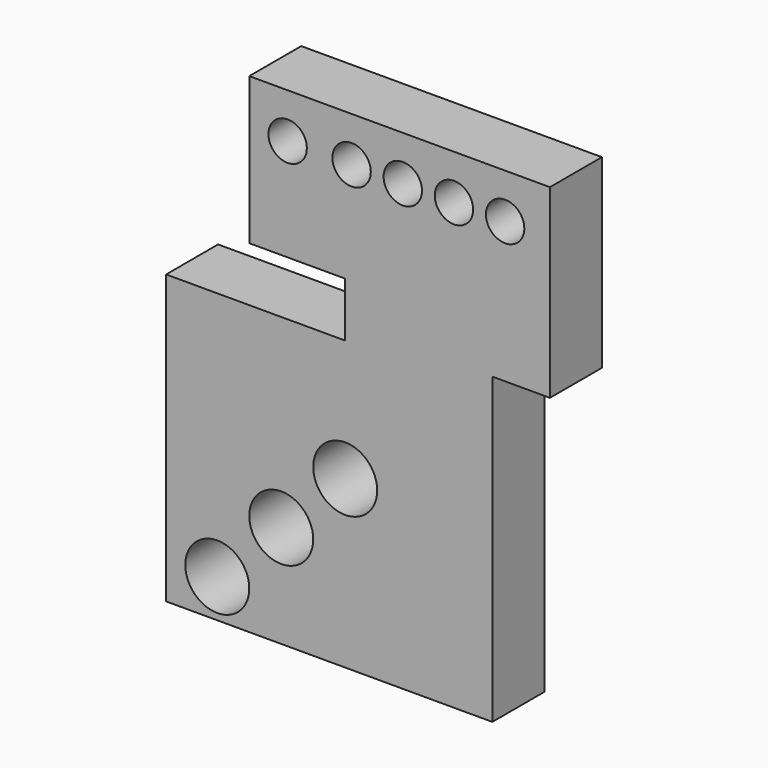
from build123d import *

# Parameters (mm, degrees)
F0_R     = 7.5
F0_R_2   = 12.5
F1_DEPTH = 25.4


with BuildPart() as f1:
    # F0 (on Front) → F1 (new body)
    with BuildSketch(Plane.XZ):
        Polygon((-12.1652076736, 30.5430293083), (-12.1652076736, 9.2314934358), (45.3347923264, 9.2314934358), (45.3347923264, 15.5430293083), (67.8347923264, 15.5430293083), (67.8347923264, 70.5430293083), (67.8347923264, 88.0430293083), (-49.6652076736, 88.0430293083), (-49.6652076736, 30.5430293083), align=None)
        with Locations((-34.6652076736, 70.5430293083)):
            Circle(F0_R, mode=Mode.SUBTRACT)
        with Locations((-9.6652076736, 70.5430293083)):
            Circle(F0_R, mode=Mode.SUBTRACT)
        with Locations((10.3347923264, 70.5430293083)):
            Circle(F0_R, mode=Mode.SUBTRACT)
        with Locations((30.3347923264, 70.5430293083)):
            Circle(F0_R, mode=Mode.SUBTRACT)
        with Locations((50.3347923264, 70.5430293083)):
            Circle(F0_R, mode=Mode.SUBTRACT)
        Polygon((-12.1652076736, 9.2314934358), (-82.1652076736, 9.2314934358), (-82.1652076736, -38.2685065642), (-82.1652076736, -63.2685065642), (-82.1652076736, -88.2685065642), (-82.1652076736, -103.2685065642), (-62.1652076736, -103.2685065642), (-37.1652076736, -103.2685065642), (-12.1652076736, -103.2685065642), (45.3347923264, -103.2685065642), (45.3347923264, 9.2314934358), align=None)
        with Locations((-62.1652076736, -88.2685065642)):
            Circle(F0_R_2, mode=Mode.SUBTRACT)
        with Locations((-37.1652076736, -63.2685065642)):
            Circle(F0_R_2, mode=Mode.SUBTRACT)
        with Locations((-12.1652076736, -38.2685065642)):
            Circle(F0_R_2, mode=Mode.SUBTRACT)
    extrude(amount=F1_DEPTH)


solid = f1.part
